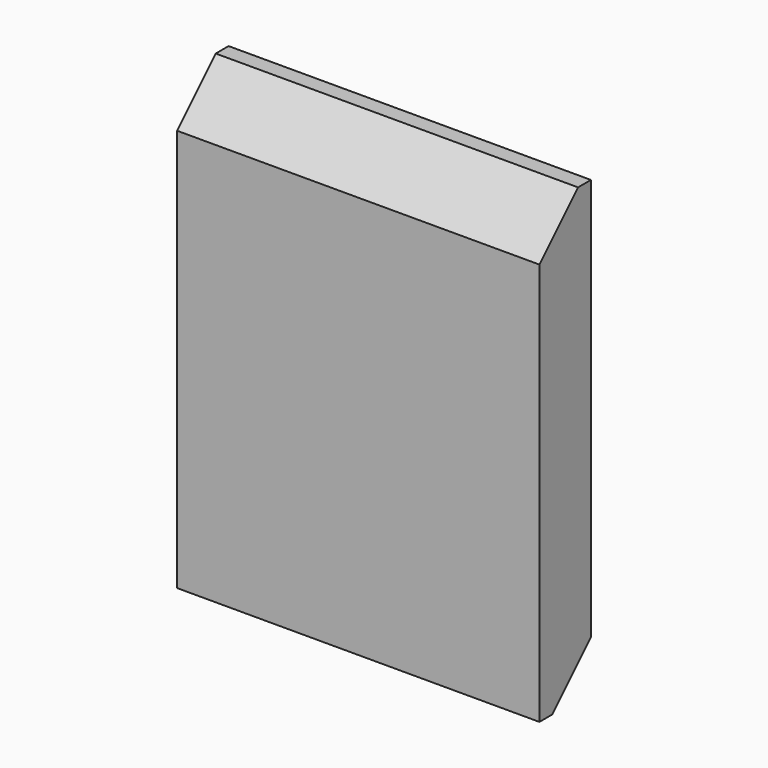
from build123d import *

# Parameters (mm, degrees)
F0_W     = 57.15
F0_H     = 71.12
F1_DEPTH = 5.08
F2_SIZE  = 7.62


with BuildPart() as f1:
    # F0 (on Front) → F1 (new body, symmetric)
    with BuildSketch(Plane.XZ):
        Rectangle(F0_W, F0_H)
    extrude(amount=F1_DEPTH, both=True)

    # F2
    f2_edges = [f1.edges().sort_by_distance(p)[0] for p in [
        (0, -5.08, 35.56),
        (0, 5.08, -35.56),
    ]]
    chamfer(f2_edges, length=F2_SIZE)


solid = f1.part
